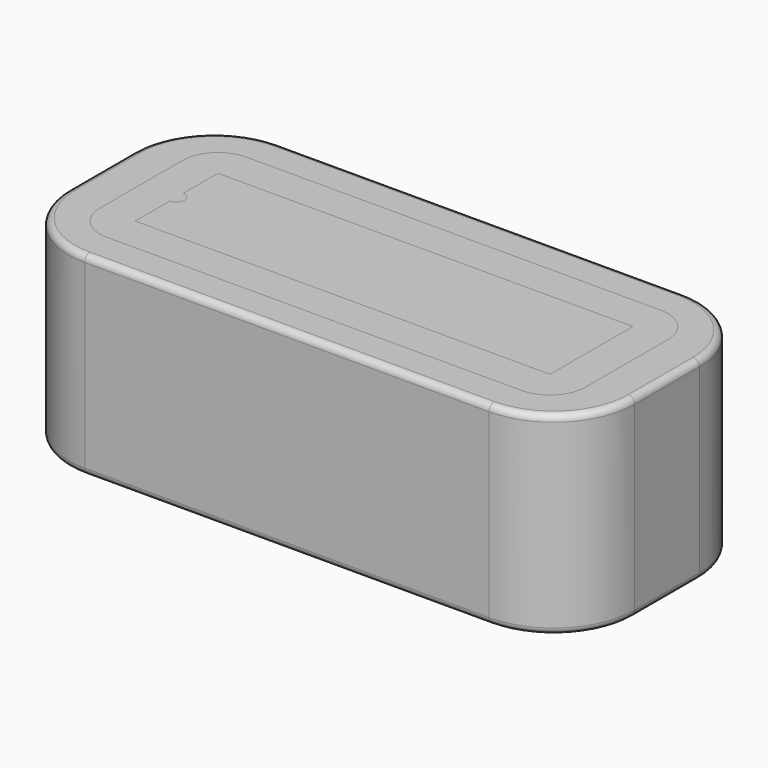
from build123d import *

# Parameters (mm, degrees)
F0_W     = 35
F0_H     = 15
F1_DEPTH = 12
F2_W     = 30
F2_H     = 10.75
F3_DEPTH = 10.2
F4_R     = 2.175
F5_R     = 5
F6_R     = 0.4
F7_DEPTH = 10.2


with BuildPart() as f1:
    # F0 (on Top) → F1 (new body)
    with BuildSketch(Plane.XY):
        Rectangle(F0_W, F0_H)
    extrude(amount=F1_DEPTH)

    # F2 (on face) → F3 (cut)
    with BuildSketch(Plane.XY.offset(12)):
        Rectangle(F2_W, F2_H)
        with BuildLine():
            Line((12.825, 3.2), (12.825, -3.2))
            Line((12.825, -3.2), (-12.825, -3.2))
            Line((-12.825, -3.2), (-12.825, -0.5))
            ThreePointArc((-12.825, -0.5), (-13.325, 0), (-12.825, 0.5))
            Line((-12.825, 0.5), (-12.825, 3.2))
            Line((-12.825, 3.2), (12.825, 3.2))
        make_face(mode=Mode.SUBTRACT)
        with BuildLine():
            ThreePointArc((-12.825, 0.5), (-13.325, 0), (-12.825, -0.5))
            Line((-12.825, -0.5), (-12.825, 0.5))
        make_face()
        with BuildLine():
            Line((-12.825, 0.5), (-12.825, -0.5))
            ThreePointArc((-12.825, -0.5), (-12.4714466094, -0.3535533906), (-12.325, 0))
            ThreePointArc((-12.325, 0), (-12.4714466094, 0.3535533906), (-12.825, 0.5))
        make_face()
    extrude(amount=-F3_DEPTH, mode=Mode.SUBTRACT)

    # F4
    f4_edges = [f1.edges().sort_by_distance(p)[0] for p in [
        (-15, 5.375, 6.9),
        (15, 5.375, 6.9),
        (15, -5.375, 6.9),
        (-15, -5.375, 6.9),
    ]]
    fillet(f4_edges, radius=F4_R)

    # F5
    f5_edges = [f1.edges().sort_by_distance(p)[0] for p in [
        (-17.5, 7.5, 6),
        (-17.5, -7.5, 6),
        (17.5, 7.5, 6),
        (17.5, -7.5, 6),
    ]]
    fillet(f5_edges, radius=F5_R)

    # F6
    f6_edges = [f1.edges().sort_by_distance(p)[0] for p in [
        (0, -7.5, 0),
        (-16.035534, -6.035534, 0),
        (16.035534, -6.035534, 0),
        (-17.5, 0, 0),
        (17.5, 0, 0),
        (-16.035534, 6.035534, 0),
        (16.035534, 6.035534, 0),
        (0, 7.5, 0),
        (-16.035534, -6.035534, 12),
    ]]
    fillet(f6_edges, radius=F6_R)


with BuildPart() as f7:
    # F7 (new): a face of the model
    f7_faces = [f1.part.faces().sort_by_distance(p)[0] for p in [
        (0, -5.0563210864, 1.8),
    ]]
    extrude(f7_faces, amount=F7_DEPTH)


solid = Compound([f1.part, f7.part])
